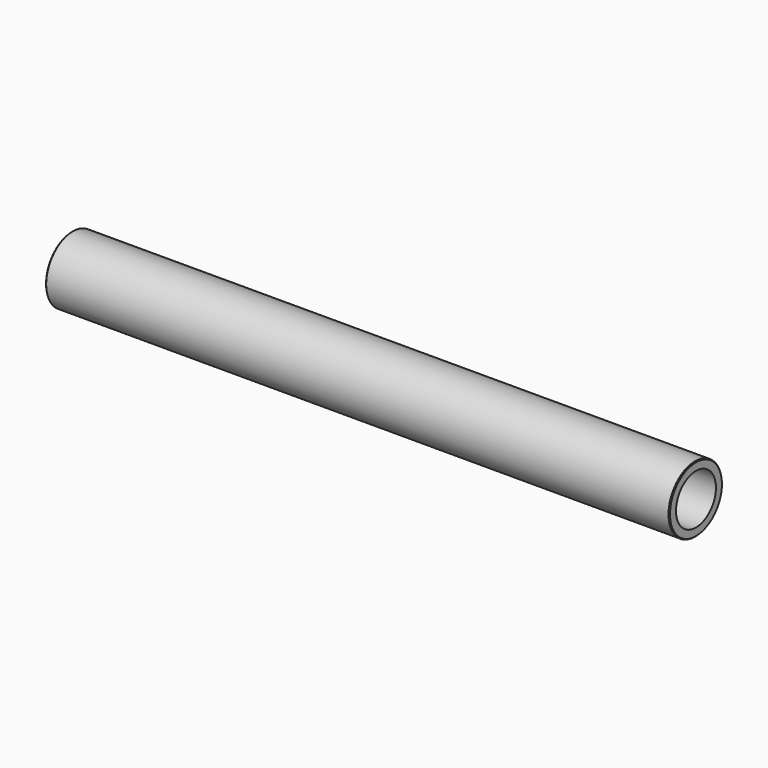
from build123d import *

# Parameters (mm, degrees)
F0_R     = 8
F1_DEPTH = 150
F2_R     = 6
F3_DEPTH = 150.001
F4_SIZE  = 0.2
F5_SIZE  = 0.2


with BuildPart() as f1:
    # F0 (on Right) → F1 (new body)
    with BuildSketch(Plane.YZ):
        Circle(F0_R)
    extrude(amount=F1_DEPTH)

    # F2 (on face) → F3 (cut, through all)
    with BuildSketch(Plane.YZ.offset(150)):
        Circle(F2_R)
    extrude(amount=-F3_DEPTH, mode=Mode.SUBTRACT)

    # F4
    f4_edges = [f1.edges().sort_by_distance(p)[0] for p in [
        (150, -8, 0),
    ]]
    chamfer(f4_edges, length=F4_SIZE)

    # F5
    f5_edges = [f1.edges().sort_by_distance(p)[0] for p in [
        (0, -8, 0),
    ]]
    chamfer(f5_edges, length=F5_SIZE)


solid = f1.part
